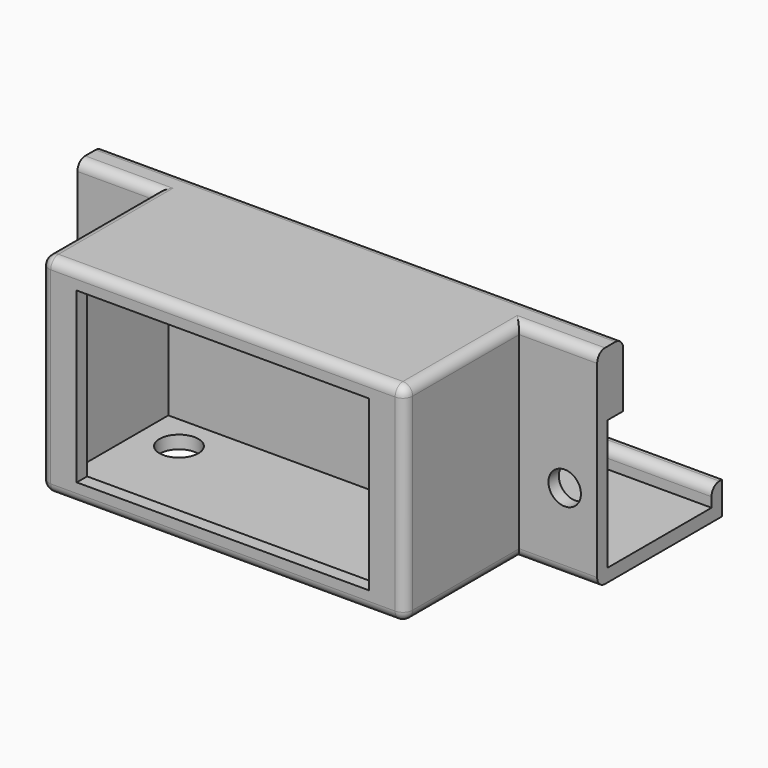
from build123d import *

# Parameters (mm, degrees)
F1_DEPTH  = 80
F2_R      = 2.5
F3_DEPTH  = 10
F2_W      = 56
F2_H      = 32
F2_W_2    = 52
F2_H_2    = 28
F4_DEPTH  = 20
F6_W      = 56
F6_H      = 32
F6_W_2    = 45
F6_H_2    = 26
F7_DEPTH  = 2
F8_R      = 1.5
F9_R      = 3
F10_DEPTH = 10


with BuildPart() as f1:
    # F0 (on Right) → F1 (new body)
    with BuildSketch(Plane.YZ):
        Polygon((0, 32), (0, 0), (24, 0), (24, 5), (22, 5), (22, 2), (2, 2), (2, 22), (5, 22), (5, 32), align=None)
    extrude(amount=F1_DEPTH)

    # F2 (on Front) → F3 (cut)
    with BuildSketch(Plane.XZ):
        with Locations((5, 12)):
            Circle(F2_R)
        with Locations((75, 12)):
            Circle(F2_R)
    extrude(amount=-F3_DEPTH, mode=Mode.SUBTRACT)

    # F2 (on Front) → F4 (join)
    with BuildSketch(Plane.XZ):
        with Locations((40, 16)):
            Rectangle(F2_W, F2_H)
        with Locations((40, 16)):
            Rectangle(F2_W_2, F2_H_2, mode=Mode.SUBTRACT)
    extrude(amount=F4_DEPTH)

    # F6 (on offset) → F7 (join)
    with BuildSketch(Plane.XZ.offset(20)):
        with Locations((40, 16)):
            Rectangle(F6_W, F6_H)
        with Locations((40, 16)):
            Rectangle(F6_W_2, F6_H_2, mode=Mode.SUBTRACT)
    extrude(amount=F7_DEPTH)

    # F8
    f8_edges = [f1.edges().sort_by_distance(p)[0] for p in [
        (68, -22, 16),
        (40, -22, 32),
        (12, -22, 16),
        (40, -22, 0),
        (68, -11, 32),
        (12, -11, 32),
        (12, -11, 0),
        (68, -11, 0),
        (40, 22, 5),
        (40, 5, 32),
        (6, 0, 32),
        (74, 0, 32),
        (6, 0, 0),
        (74, 0, 0),
    ]]
    fillet(f8_edges, radius=F8_R)

    # F9 (on Top) → F10 (cut)
    with BuildSketch(Plane.XY):
        with Locations((20, -5.453821)):
            Circle(F9_R)
    extrude(amount=F10_DEPTH, mode=Mode.SUBTRACT)


solid = f1.part
